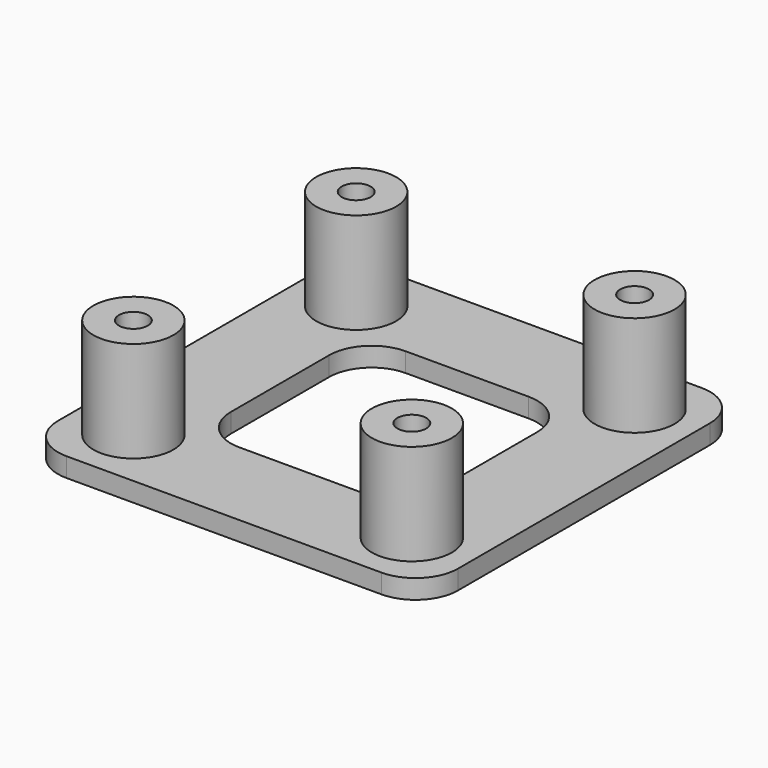
from build123d import *

# Parameters (mm, degrees)
F0_W     = 25
F0_H     = 25
F0_R     = 2.5
F0_W_2   = 13
F0_H_2   = 13
F1_DEPTH = 1.2
F0_R_2   = 0.9
F2_DEPTH = 7.5
F3_R     = 2.655635


with BuildPart() as f1:
    # F0 (on Top) → F1 (new body)
    with BuildSketch(Plane.XY):
        Rectangle(F0_W, F0_H)
        with Locations((-8.7, -8.7)):
            Circle(F0_R, mode=Mode.SUBTRACT)
        with Locations((8.7, -8.7)):
            Circle(F0_R, mode=Mode.SUBTRACT)
        with Locations((-8.7, 8.7)):
            Circle(F0_R, mode=Mode.SUBTRACT)
        Rectangle(F0_W_2, F0_H_2, mode=Mode.SUBTRACT)
        with Locations((8.7, 8.7)):
            Circle(F0_R, mode=Mode.SUBTRACT)
    extrude(amount=F1_DEPTH)

    # F0 (on Top) → F2 (join)
    with BuildSketch(Plane.XY):
        with Locations((-8.7, 8.7)):
            Circle(F0_R)
        with Locations((-8.7, 8.7)):
            Circle(F0_R_2, mode=Mode.SUBTRACT)
        with Locations((8.7, 8.7)):
            Circle(F0_R)
        with Locations((8.7, 8.7)):
            Circle(F0_R_2, mode=Mode.SUBTRACT)
        with Locations((-8.7, -8.7)):
            Circle(F0_R)
        with Locations((-8.7, -8.7)):
            Circle(F0_R_2, mode=Mode.SUBTRACT)
        with Locations((8.7, -8.7)):
            Circle(F0_R)
        with Locations((8.7, -8.7)):
            Circle(F0_R_2, mode=Mode.SUBTRACT)
    extrude(amount=F2_DEPTH)

    # F3
    f3_edges = [f1.edges().sort_by_distance(p)[0] for p in [
        (12.5, -12.5, 0.6),
        (12.5, 12.5, 0.6),
        (-12.5, 12.5, 0.6),
        (-12.5, -12.5, 0.6),
        (-6.5, 6.5, 0.6),
        (-6.5, -6.5, 0.6),
        (6.5, -6.5, 0.6),
        (6.5, 6.5, 0.6),
    ]]
    fillet(f3_edges, radius=F3_R)


solid = f1.part
